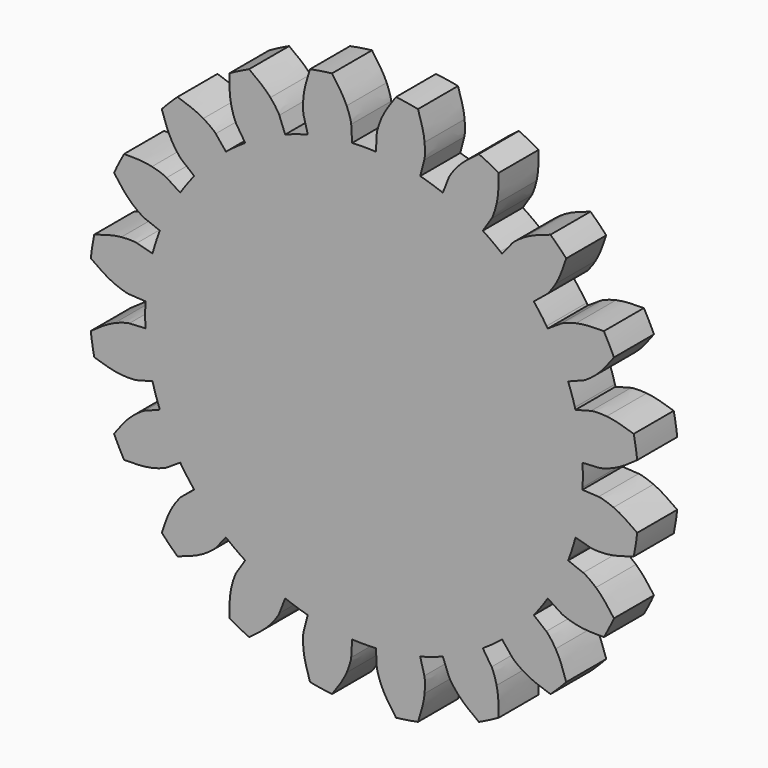
from build123d import *

# Parameters (mm, degrees)
F3_DEPTH = 5
F4_COUNT = 20


with BuildPart() as f3:
    # F1 (on Front) → F3 (new body)
    with BuildSketch(Plane.XZ):
        with BuildLine():
            ThreePointArc((-4.9077489811, 24.5135472737), (-3.3266479601, 24.777679741), (-1.7318696448, 24.9399404076))
            add(Edge.make_bspline(
                [(-3.1983116562, 27.3133813826), (-2.8158439541, 26.7780987154), (-2.2287013043, 25.9554173494), (-1.8448192448, 25.1965826921), (-1.7318696448, 24.9399404076)],
                knots=[0, 0, 0, 0, 0.3474791225, 0.5340052093, 0.5340052093, 0.5340052093, 0.5340052093], degree=3))
            ThreePointArc((-3.1983116562, 27.3133813826), (-4.3019477886, 27.1614293664), (-5.3985238793, 26.964902001))
            Line((-5.3985238793, 26.964902001), (-4.9077489811, 24.5135472737))
        make_face()
        with BuildLine():
            add(Edge.make_bspline(
                [(-5.3985238793, 26.964902001), (-5.5968608387, 26.3376289126), (-5.9010441587, 25.3737753817), (-6.0316448878, 24.5334546559), (-6.0597595136, 24.2544699929)],
                knots=[0, 0, 0, 0, 0.3474791225, 0.5340052093, 0.5340052093, 0.5340052093, 0.5340052093], degree=3))
            ThreePointArc((-6.0597595136, 24.2544699929), (-5.4852840314, 24.3908109561), (-4.9077489811, 24.5135472737))
            Line((-4.9077489811, 24.5135472737), (-5.3985238793, 26.964902001))
        make_face()
        with BuildLine():
            ThreePointArc((-4.9077489811, 24.5135472737), (-5.4852840314, 24.3908109561), (-6.0597595136, 24.2544699929))
            add(Edge.make_bspline(
                [(-6.0597595136, 24.2544699929), (-6.0759093925, 24.0942128885), (-6.1083089642, 23.6086943754), (-6.0844382524, 22.9963444258), (-6.0540821757, 22.7809872232), (-6.0336919607, 22.7042606089)],
                knots=[0.5340052093, 0.5340052093, 0.5340052093, 0.5340052093, 0.6411513522, 0.8686330807, 1, 1, 1, 1], degree=3))
            ThreePointArc((-6.0336919607, 22.7042606089), (-5.3253051096, 22.880778264), (-4.6117755023, 23.0351994823))
            Line((-4.6117755023, 23.0351994823), (-4.9077489811, 24.5135472737))
        make_face()
        with BuildLine():
            add(Edge.make_bspline(
                [(-1.7318696448, 24.9399404076), (-1.6669880285, 24.7925174312), (-1.486140733, 24.3407739038), (-1.3196165881, 23.7510180383), (-1.2819378972, 23.5368206239), (-1.2776203164, 23.4575483545)],
                knots=[0.5340052093, 0.5340052093, 0.5340052093, 0.5340052093, 0.6411513522, 0.8686330807, 1, 1, 1, 1], degree=3))
            ThreePointArc((-1.7318696448, 24.9399404076), (-3.3266479601, 24.777679741), (-4.9077489811, 24.5135472737))
            Line((-4.9077489811, 24.5135472737), (-4.6117755023, 23.0351994823))
            ThreePointArc((-4.6117755023, 23.0351994823), (-3.5703058294, 23.2194273133), (-2.521599663, 23.3565927227))
            ThreePointArc((-2.521599663, 23.3565927227), (-1.9002805379, 23.4153330609), (-1.2776203164, 23.4575483545))
        make_face()
        with BuildLine():
            Line((-1.1896632495, 21.8426263611), (-1.2776203164, 23.4575483545))
            ThreePointArc((-1.2776203164, 23.4575483545), (-1.9002805379, 23.4153330609), (-2.521599663, 23.3565927227))
            Line((-2.521599663, 23.3565927227), (-2.3480015234, 21.7486209642))
            ThreePointArc((-2.3480015234, 21.7486209642), (-1.7694567712, 21.8033173562), (-1.1896632495, 21.8426263611))
        make_face()
        with BuildLine():
            ThreePointArc((-2.521599663, 23.3565927227), (-3.5703058294, 23.2194273133), (-4.6117755023, 23.0351994823))
            Line((-4.6117755023, 23.0351994823), (-4.2942803585, 21.4493538645))
            ThreePointArc((-4.2942803585, 21.4493538645), (-3.3245100915, 21.6208986319), (-2.3480015234, 21.7486209642))
            Line((-2.3480015234, 21.7486209642), (-2.521599663, 23.3565927227))
        make_face()
        with BuildLine():
            ThreePointArc((-4.6117755023, 23.0351994823), (-5.3253051096, 22.880778264), (-6.0336919607, 22.7042606089))
            Line((-6.0336919607, 22.7042606089), (-5.6183057617, 21.1411982955))
            ThreePointArc((-5.6183057617, 21.1411982955), (-4.9586874132, 21.3055636898), (-4.2942803585, 21.4493538645))
            Line((-4.2942803585, 21.4493538645), (-4.6117755023, 23.0351994823))
        make_face()
        with BuildLine():
            ThreePointArc((-4.2942803585, 21.4493538645), (-4.9586874132, 21.3055636898), (-5.6183057617, 21.1411982955))
            Line((-5.6183057617, 21.1411982955), (0, 0))
            Line((0, 0), (-4.2942803585, 21.4493538645))
        make_face()
        with BuildLine():
            Line((-4.2942803585, 21.4493538645), (0, 0))
            Line((0, 0), (-2.3480015234, 21.7486209642))
            ThreePointArc((-2.3480015234, 21.7486209642), (-3.3245100915, 21.6208986319), (-4.2942803585, 21.4493538645))
        make_face()
        with BuildLine():
            Line((0, 0), (-1.1896632495, 21.8426263611))
            ThreePointArc((-1.1896632495, 21.8426263611), (-1.7694567712, 21.8033173562), (-2.3480015234, 21.7486209642))
            Line((-2.3480015234, 21.7486209642), (0, 0))
        make_face()
        with BuildLine():
            ThreePointArc((0.9765913113, 21.8531895706), (-0.1066668086, 21.8747399343), (-1.1896632495, 21.8426263611))
            Line((-1.1896632495, 21.8426263611), (0, 0))
            Line((0, 0), (0.9765913113, 21.8531895706))
        make_face()
        with BuildLine():
            Line((0, 0), (1.1896632495, 21.8426263611))
            ThreePointArc((1.1896632495, 21.8426263611), (1.0831401576, 21.8481677126), (0.9765913113, 21.8531895706))
            Line((0.9765913113, 21.8531895706), (0, 0))
        make_face()
    extrude(amount=F3_DEPTH)

    # F4: F3 ×20 about axis
    f4_axis = Axis((0, 2.1209500405, 0), (0, 1, 0))


with BuildPart() as f3_1:
    add(f3.part)
    for i in range(1, F4_COUNT):
        add(f3.part.rotate(f4_axis, i * 360 / F4_COUNT))


solid = f3_1.part
